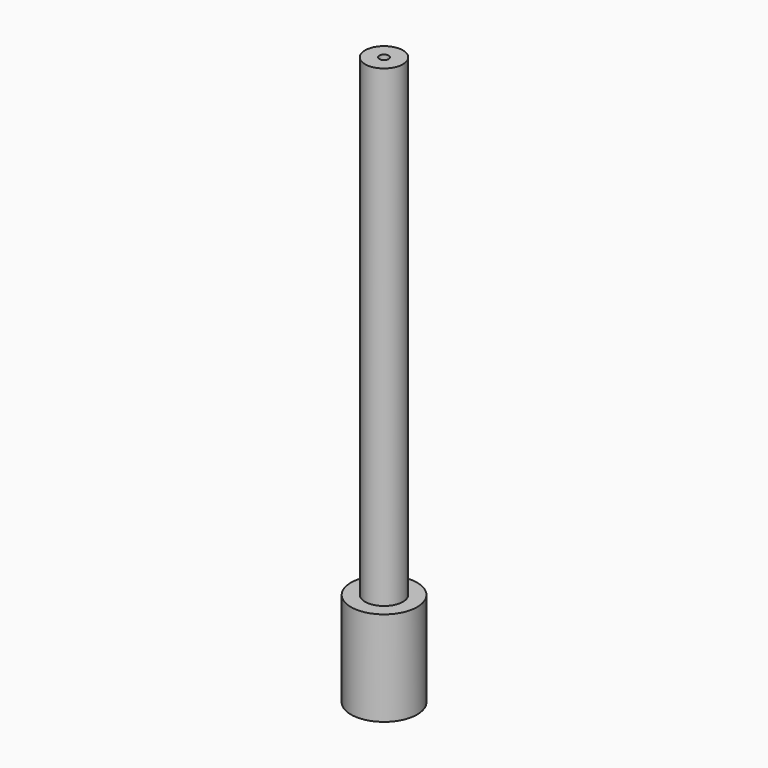
from build123d import *

# Parameters (mm, degrees)
SKETCH_R        = 4
PAD_DEPTH       = 100
SKETCH001_R     = 1
POCKET_DEPTH    = 5
SKETCH002_R     = 7
PAD001_DEPTH    = 20
SKETCH003_R     = 5.5
POCKET001_DEPTH = 15


with BuildPart() as part:
    # Sketch → Pad (new body)
    with BuildSketch(Plane.XY):
        Circle(SKETCH_R)
    extrude(amount=-PAD_DEPTH)

    # Sketch001 → Pocket (cut)
    with BuildSketch(Plane.XY):
        Circle(SKETCH001_R)
    extrude(amount=-POCKET_DEPTH, mode=Mode.SUBTRACT)

    # Sketch002 → Pad001 (new body)
    with BuildSketch(Plane(origin=(0, 0, -100), x_dir=(1, 0, 0), z_dir=(0, 0, -1))):
        Circle(SKETCH002_R)
    extrude(amount=PAD001_DEPTH)

    # Sketch003 → Pocket001 (cut)
    with BuildSketch(Plane(origin=(0, 0, -120), x_dir=(1, 0, 0), z_dir=(0, 0, -1))):
        Circle(SKETCH003_R)
    extrude(amount=-POCKET001_DEPTH, mode=Mode.SUBTRACT)


solid = part.part
